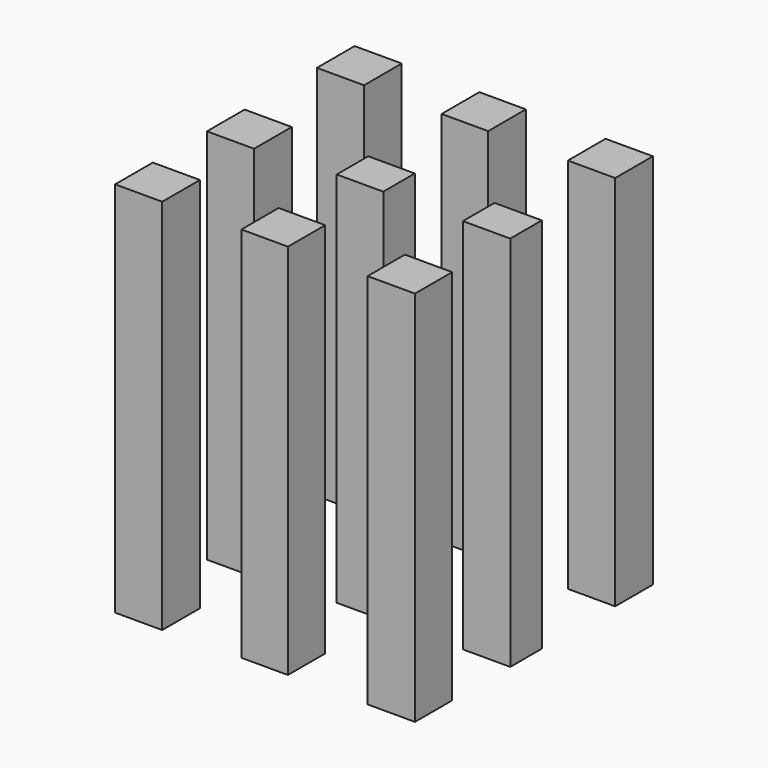
from build123d import *

# Parameters (mm, degrees)
F1_W     = 38.1
F1_H     = 38.1
F2_DEPTH = 304.8
F3_W     = 37.625849
F3_H     = 38.1
F3_W_2   = 38.263576
F3_H_2   = 31.886313
F3_H_3   = 37.625852
F4_DEPTH = 304.8


with BuildPart() as f2:
    # F1 (on face) → F2 (new body)
    with BuildSketch(Plane.XY):
        with Locations((-214.390814, 168.68162)):
            Rectangle(F1_W, F1_H)
        with Locations((-214.390814, 57.551151)):
            Rectangle(F1_W, F1_H)
        with Locations((-214.390814, -35.222126)):
            Rectangle(F1_W, F1_H)
    extrude(amount=F2_DEPTH)


with BuildPart() as f4:
    # F3 (on face) → F4 (new body)
    with BuildSketch(Plane.XY.offset(304.8)):
        with Locations((-113.820001, 168.68162)):
            Rectangle(F3_W, F3_H)
        with Locations((-11.464938, 168.68162)):
            Rectangle(F3_W_2, F3_H)
        with Locations((-113.820001, 59.569991)):
            Rectangle(F3_W, F3_H_2)
        with Locations((-11.464938, 59.569991)):
            Rectangle(F3_W_2, F3_H_2)
        with Locations((-11.464938, -33.856912)):
            Rectangle(F3_W_2, F3_H_3)
        with Locations((-113.820001, -33.856912)):
            Rectangle(F3_W, F3_H_3)
    extrude(amount=-F4_DEPTH)


solid = Compound([f2.part, f4.part])
